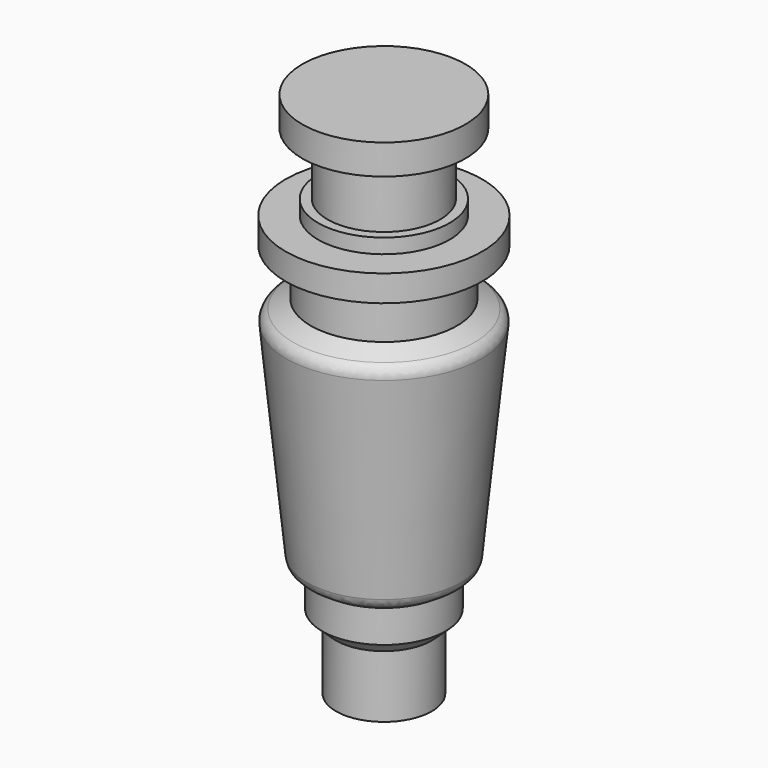
from build123d import *

# Parameters (mm, degrees)
F3_R = 8.434765


with BuildPart() as f2:
    # F1 (on Front) → F2 (revolve)
    with BuildSketch(Plane.XZ):
        Polygon((0, 0), (0, 358.246535), (-55.39559, 358.246535), (-55.39559, 337.855637), (-38.260494, 337.855637), (-38.260494, 295.834184), (-44.670545, 295.834184), (-44.670545, 285.863012), (-66.675, 285.863012), (-66.675, 268.010706), (-49.656138, 268.010706), (-49.656138, 236.007065), (-66.675, 227.296799), (-51.792823, 79.316951), (-41.821633, 72.906896), (-41.821633, 50.827838), (-32.562673, 42.281102), (-32.562673, 0), align=None)
    revolve(axis=Axis((0, 0, 179.123268), (0, 0, -1)))

    # F3
    f3_edges = [f2.edges().sort_by_distance(p)[0] for p in [
        (66.675, 0, 227.296799),
        (51.792823, 0, 79.316951),
    ]]
    fillet(f3_edges, radius=F3_R)


solid = f2.part
